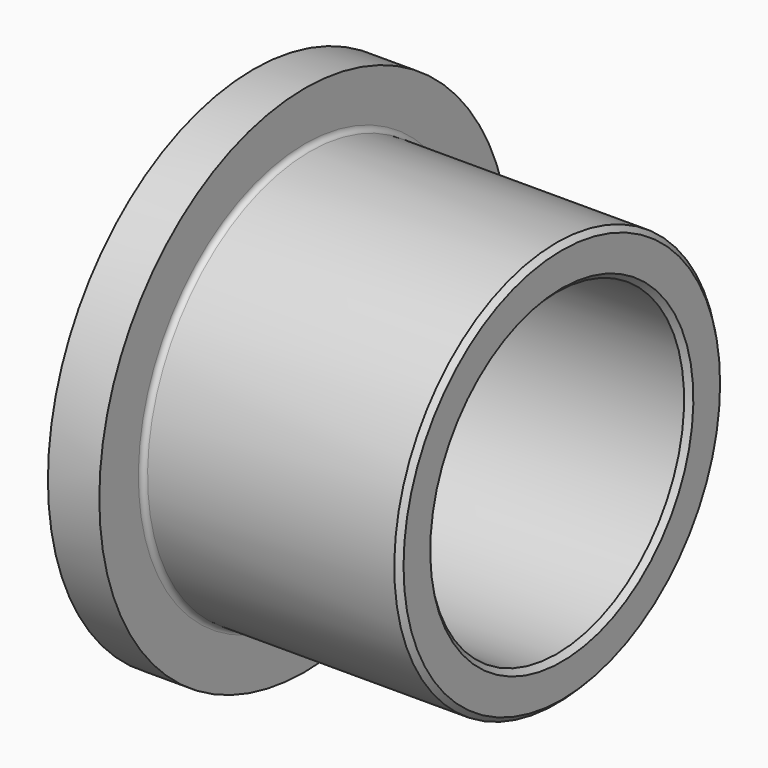
from build123d import *

# Parameters (mm, degrees)
F2_SIZE = 1
F3_R    = 1


with BuildPart() as f1:
    # F0 (on Front) → F1 (revolve)
    with BuildSketch(Plane.XZ):
        Polygon((-96.6734094576, 23.8900707406), (-96.6734094576, 4.8900707406), (-36.6734094576, 4.8900707406), (-36.6734094576, 13.3900707406), (-86.6734094576, 13.3900707406), (-86.6734094576, 23.8900707406), align=None)
    revolve(axis=Axis((-29.0751103312, 0, -26.1099292594), (1, 0, 0)))

    # F2
    f2_edges = [f1.edges().sort_by_distance(p)[0] for p in [
        (-36.673409, 0, -57.109929),
        (-36.673409, 0, -65.609929),
        (-96.673409, 0, -57.109929),
    ]]
    chamfer(f2_edges, length=F2_SIZE)

    # F3
    f3_edges = [f1.edges().sort_by_distance(p)[0] for p in [
        (-86.673409, 0, -65.609929),
    ]]
    fillet(f3_edges, radius=F3_R)


solid = f1.part
